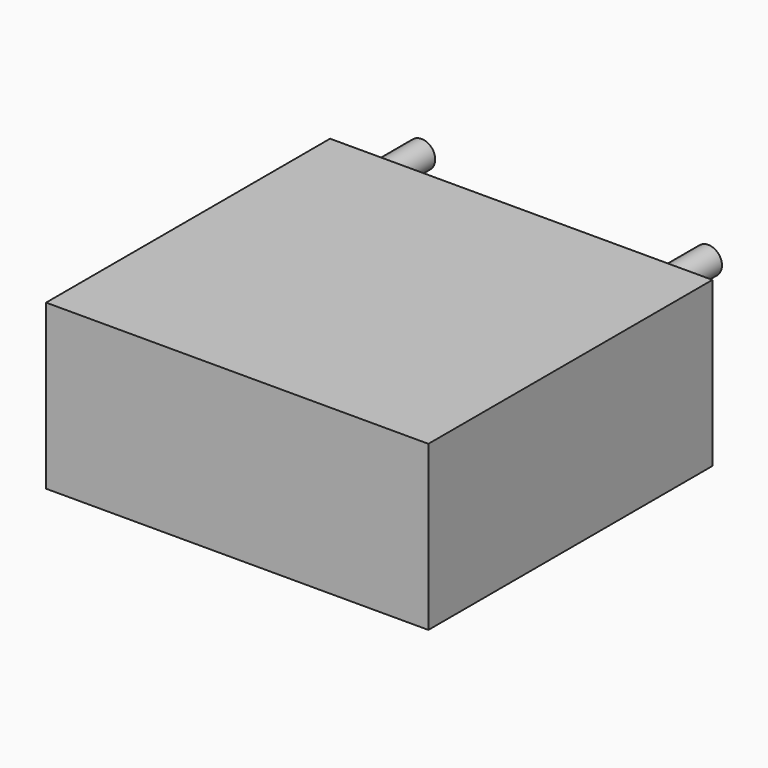
from build123d import *

# Parameters (mm, degrees)
F0_W     = 177.8
F0_H     = 165.1
F1_DEPTH = 76.2
F2_R     = 6.35
F3_DEPTH = 25.4


with BuildPart() as f1:
    # F0 (on Top) → F1 (new body)
    with BuildSketch(Plane.XY):
        with Locations((88.9, -82.55)):
            Rectangle(F0_W, F0_H)
    extrude(amount=F1_DEPTH)

    # F2 (on face) → F3 (join)
    with BuildSketch(Plane(origin=(0, 0, 0), x_dir=(-1, 0, 0), z_dir=(0, 1, 0))):
        with Locations((-155.575, 66.675)):
            Circle(F2_R)
        with Locations((-22.225, 66.675)):
            Circle(F2_R)
    extrude(amount=F3_DEPTH)


solid = f1.part
